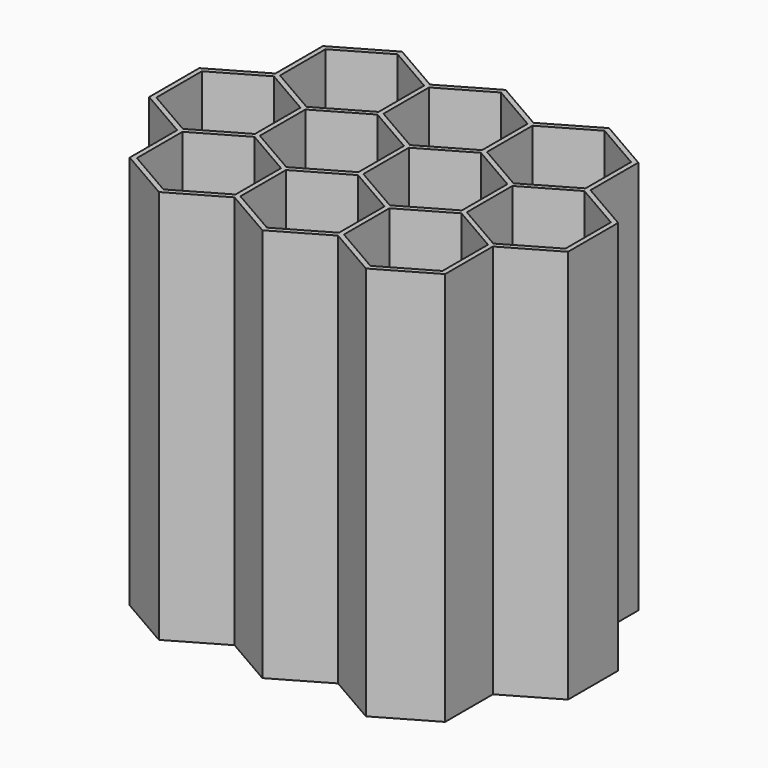
from build123d import *

# Parameters (mm, degrees)
F1_DEPTH = 120
F3_DEPTH = 120.001


with BuildPart() as f1:
    # F0 (on Top) → F1 (new body)
    with BuildSketch(Plane.XY):
        Polygon((-35.93138, 37.175638), (-51.68138, 46.268904), (-68.18138, 36.742625), (-68.18138, 18.683001), (-84.041286, 9.526279), (-84.041286, -9.526279), (-68.18138, -18.683001), (-68.18138, -36.742625), (-51.68138, -46.268904), (-35.93138, -37.175638), (-20.18138, -46.268904), (-4.43138, -37.175638), (11.31862, -46.268904), (27.81862, -36.742625), (27.81862, -18.556092), (43.458714, -9.526279), (43.458714, 9.526279), (27.81862, 18.556092), (27.81862, 36.742625), (11.31862, 46.268904), (-4.43138, 37.175638), (-20.18138, 46.268904), align=None)
    extrude(amount=F1_DEPTH)

    # F2 (on face) → F3 (cut, through all)
    with BuildSketch(Plane.XY.offset(120)):
        Polygon((-51.68138, 44.536854), (-66.68138, 35.8766), (-66.68138, 18.556092), (-51.68138, 9.895837), (-36.68138, 18.556092), (-36.68138, 35.8766), align=None)
        Polygon((-67.541286, -17.320508), (-52.541286, -8.660254), (-52.541286, 8.660254), (-67.541286, 17.320508), (-82.541286, 8.660254), (-82.541286, -8.660254), align=None)
        Polygon((-51.68138, -44.536854), (-36.68138, -35.8766), (-36.68138, -18.556092), (-51.68138, -9.895837), (-66.68138, -18.556092), (-66.68138, -35.8766), align=None)
        Polygon((-20.18138, 9.895837), (-5.18138, 18.556092), (-5.18138, 35.8766), (-20.18138, 44.536854), (-35.18138, 35.8766), (-35.18138, 18.556092), align=None)
        Polygon((-5.18138, -18.556092), (-20.18138, -9.895837), (-35.18138, -18.556092), (-35.18138, -35.8766), (-20.18138, -44.536854), (-5.18138, -35.8766), align=None)
        Polygon((11.31862, 9.895837), (26.31862, 18.556092), (26.31862, 35.8766), (11.31862, 44.536854), (-3.68138, 35.8766), (-3.68138, 18.556092), align=None)
        Polygon((26.31862, -18.556092), (11.31862, -9.895837), (-3.68138, -18.556092), (-3.68138, -35.8766), (11.31862, -44.536854), (26.31862, -35.8766), align=None)
        Polygon((-21.041286, -8.660254), (-21.041286, 8.660254), (-36.041286, 17.320508), (-51.041286, 8.660254), (-51.041286, -8.660254), (-36.041286, -17.320508), align=None)
        Polygon((10.458714, -8.660254), (10.458714, 8.660254), (-4.541286, 17.320508), (-19.541286, 8.660254), (-19.541286, -8.660254), (-4.541286, -17.320508), align=None)
        Polygon((41.958714, -8.660254), (41.958714, 8.660254), (26.958714, 17.320508), (11.958714, 8.660254), (11.958714, -8.660254), (26.958714, -17.320508), align=None)
    extrude(amount=-F3_DEPTH, mode=Mode.SUBTRACT)


solid = f1.part
